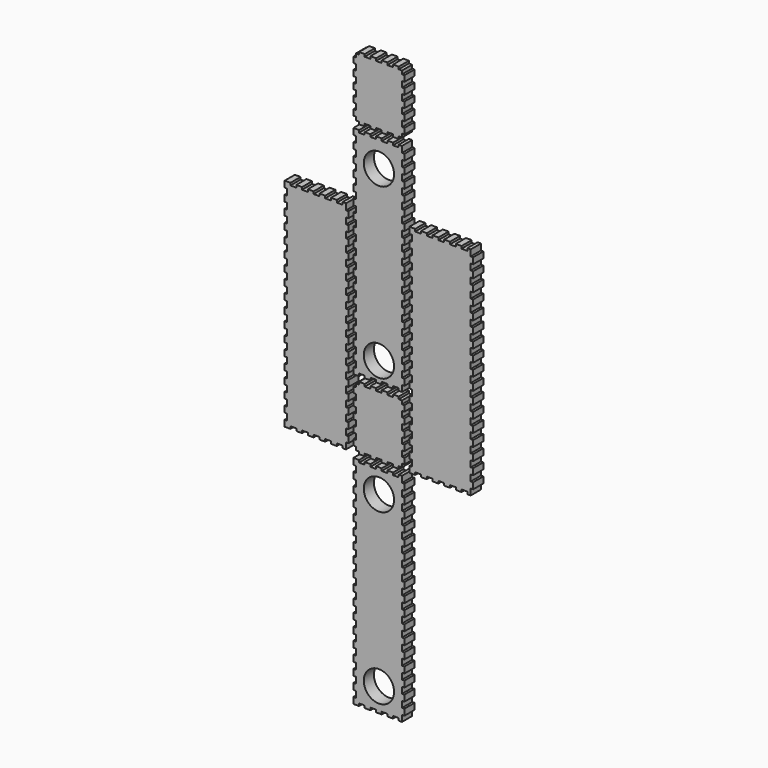
from build123d import *

# Parameters (mm, degrees)
F0_R     = 30.2133
F1_DEPTH = 25.4


with BuildPart() as f1:
    # F0 (on Front) → F1 (new body)
    with BuildSketch(Plane.XZ):
        Polygon((-50.8007366, -561.464841), (-50.8007366, -573.8010114), (-39.5119606, -573.8010114), (-39.5119606, -569.0385114), (-28.2231846, -569.0385114), (-28.2231846, -573.8010114), (-16.9341546, -573.8010114), (-16.9341546, -569.0385114), (-5.6453786, -569.0385114), (-5.6453786, -573.8010114), (5.6436514, -573.8010114), (5.6436514, -569.0385114), (16.9324274, -569.0385114), (16.9324274, -573.8010114), (28.2214574, -573.8010114), (28.2214574, -569.0385114), (39.5102334, -569.0385114), (39.5102334, -573.8010114), (46.0365094, -573.8010114), (46.0365094, -561.464841), (50.7990094, -561.464841), (50.7990094, -549.1271466), (46.0365094, -549.1271466), (46.0365094, -536.7896046), (50.7990094, -536.7896046), (50.7990094, -524.4535866), (46.0365094, -524.4535866), (46.0365094, -512.1160446), (50.7990094, -512.1160446), (50.7990094, -499.7782486), (46.0365094, -499.7782486), (46.0365094, -487.4419766), (50.7990094, -487.4419766), (50.7990094, -475.1046886), (46.0365094, -475.1046886), (46.0365094, -462.7668926), (50.7990094, -462.7668926), (50.7990094, -450.4293506), (46.0365094, -450.4293506), (46.0365094, -438.0933326), (50.7990094, -438.0933326), (50.7990094, -425.7555366), (46.0365094, -425.7555366), (46.0365094, -413.4179946), (50.7990094, -413.4179946), (50.7990094, -401.0819766), (46.0365094, -401.0819766), (46.0365094, -388.7441806), (50.7990094, -388.7441806), (50.7990094, -376.4066386), (46.0365094, -376.4066386), (46.0365094, -364.0706206), (50.7990094, -364.0706206), (50.7990094, -351.7328246), (46.0365094, -351.7328246), (46.0365094, -339.3952826), (50.7990094, -339.3952826), (50.7990094, -327.0582486), (46.0365094, -327.0582486), (46.0365094, -314.7214686), (50.7990094, -314.7214686), (50.7990094, -302.3846886), (46.0365094, -302.3846886), (46.0365094, -290.0479086), (50.7990094, -290.0479086), (50.7990094, -277.7111286), (46.0365094, -277.7111286), (46.0365094, -265.3718086), (50.7990094, -265.3718086), (50.7990094, -253.0375686), (46.0365094, -253.0375686), (46.0365094, -240.6982486), (50.7990094, -240.6982486), (50.7990094, -228.3614686), (46.0365094, -228.3614686), (46.0365094, -216.0246886), (50.7990094, -216.0246886), (50.7990094, -203.6879086), (46.0365094, -203.6879086), (46.0365094, -191.3511286), (50.7990094, -191.3511286), (50.7990094, -179.0143486), (46.0365094, -179.0143486), (46.0365094, -166.6775686), (50.7990094, -166.6775686), (50.7990094, -154.3357086), (46.0365094, -154.3357086), (46.0365094, -142.0014686), (39.5102334, -142.0014686), (39.5102334, -146.7639686), (28.2214574, -146.7639686), (28.2214574, -142.0014686), (16.9324274, -142.0014686), (16.9324274, -146.7639686), (5.6436514, -146.7639686), (5.6436514, -142.0014686), (-5.6453786, -142.0014686), (-5.6453786, -146.7639686), (-16.9341546, -146.7639686), (-16.9341546, -142.0014686), (-28.2231846, -142.0014686), (-28.2231846, -146.7639686), (-39.5119606, -146.7639686), (-39.5119606, -142.0014686), (-50.8007366, -142.0014686), (-50.8007366, -154.3357086), (-46.0382366, -154.3357086), (-46.0382366, -166.6775686), (-50.8007366, -166.6775686), (-50.8007366, -179.0143486), (-46.0382366, -179.0143486), (-46.0382366, -191.3511286), (-50.8007366, -191.3511286), (-50.8007366, -203.6879086), (-46.0382366, -203.6879086), (-46.0382366, -216.0246886), (-50.8007366, -216.0246886), (-50.8007366, -228.3614686), (-46.0382366, -228.3614686), (-46.0382366, -240.6982486), (-50.8007366, -240.6982486), (-50.8007366, -253.0375686), (-46.0382366, -253.0375686), (-46.0382366, -265.3718086), (-50.8007366, -265.3718086), (-50.8007366, -277.7111286), (-46.0382366, -277.7111286), (-46.0382366, -290.0479086), (-50.8007366, -290.0479086), (-50.8007366, -302.3846886), (-46.0382366, -302.3846886), (-46.0382366, -314.7214686), (-50.8007366, -314.7214686), (-50.8007366, -327.0582486), (-46.0382366, -327.0582486), (-46.0382366, -339.3952826), (-50.8007366, -339.3952826), (-50.8007366, -351.7328246), (-46.0382366, -351.7328246), (-46.0382366, -364.0706206), (-50.8007366, -364.0706206), (-50.8007366, -376.4066386), (-46.0382366, -376.4066386), (-46.0382366, -388.7441806), (-50.8007366, -388.7441806), (-50.8007366, -401.0819766), (-46.0382366, -401.0819766), (-46.0382366, -413.4179946), (-50.8007366, -413.4179946), (-50.8007366, -425.7555366), (-46.0382366, -425.7555366), (-46.0382366, -438.0933326), (-50.8007366, -438.0933326), (-50.8007366, -450.4293506), (-46.0382366, -450.4293506), (-46.0382366, -462.7668926), (-50.8007366, -462.7668926), (-50.8007366, -475.1046886), (-46.0382366, -475.1046886), (-46.0382366, -487.4419766), (-50.8007366, -487.4419766), (-50.8007366, -499.7782486), (-46.0382366, -499.7782486), (-46.0382366, -512.1160446), (-50.8007366, -512.1160446), (-50.8007366, -524.4535866), (-46.0382366, -524.4535866), (-46.0382366, -536.7896046), (-50.8007366, -536.7896046), (-50.8007366, -549.1271466), (-46.0382366, -549.1271466), (-46.0382366, -561.464841), align=None)
        with Locations((-0.0008636, -526.29054)):
            Circle(F0_R, mode=Mode.SUBTRACT)
        with Locations((-0.0008636, -189.51194)):
            Circle(F0_R, mode=Mode.SUBTRACT)
    extrude(amount=F1_DEPTH)


with BuildPart() as f1b:
    # F0 (on Front) → F1, piece 2 (new body)
    with BuildSketch(Plane.XZ):
        Polygon((-187.7997514, -119.6647086), (-187.7997514, -132.0014886), (-176.2545624, -132.0014886), (-176.2545624, -127.2389886), (-164.7093226, -127.2389886), (-164.7093226, -132.0014886), (-153.1642606, -132.0014886), (-153.1642606, -127.2389886), (-141.6189446, -127.2389886), (-141.6189446, -132.0014886), (-130.0726126, -132.0014886), (-130.0726126, -127.2389886), (-118.5270426, -127.2389886), (-118.5270426, -132.0014886), (-106.9817266, -132.0014886), (-106.9817266, -127.2389886), (-95.4366646, -127.2389886), (-95.4366646, -132.0014886), (-83.8913486, -132.0014886), (-83.8913486, -127.2389886), (-72.3450166, -127.2389886), (-72.3450166, -132.0014886), (-65.5622006, -132.0014886), (-65.5622006, -119.6647086), (-60.7997006, -119.6647086), (-60.7997006, -107.3253886), (-65.5622006, -107.3253886), (-65.5622006, -94.9886086), (-60.7997006, -94.9886086), (-60.7997006, -82.6518286), (-65.5622006, -82.6518286), (-65.5622006, -70.3150486), (-60.7997006, -70.3150486), (-60.7997006, -57.9782686), (-65.5622006, -57.9782686), (-65.5622006, -45.6414886), (-60.7997006, -45.6414886), (-60.7997006, -33.3047086), (-65.5622006, -33.3047086), (-65.5622006, -20.9653886), (-60.7997006, -20.9653886), (-60.7997006, -8.6286086), (-65.5622006, -8.6286086), (-65.5622006, 3.7081714), (-60.7997006, 3.7081714), (-60.7997006, 16.0449514), (-65.5622006, 16.0449514), (-65.5622006, 28.3817314), (-60.7997006, 28.3817314), (-60.7997006, 40.7185114), (-65.5622006, 40.7185114), (-65.5622006, 53.0578314), (-60.7997006, 53.0578314), (-60.7997006, 65.3895314), (-65.5622006, 65.3895314), (-65.5622006, 77.7313914), (-60.7997006, 77.7313914), (-60.7997006, 90.0681714), (-65.5622006, 90.0681714), (-65.5622006, 102.4049514), (-60.7997006, 102.4049514), (-60.7997006, 114.7417314), (-65.5622006, 114.7417314), (-65.5622006, 127.0785114), (-60.7997006, 127.0785114), (-60.7997006, 139.4152914), (-65.5622006, 139.4152914), (-65.5622006, 151.7546114), (-60.7997006, 151.7546114), (-60.7997006, 164.0913914), (-65.5622006, 164.0913914), (-65.5622006, 176.4281714), (-60.7997006, 176.4281714), (-60.7997006, 188.7649514), (-65.5622006, 188.7649514), (-65.5622006, 201.1017314), (-60.7997006, 201.1017314), (-60.7997006, 213.4385114), (-65.5622006, 213.4385114), (-65.5622006, 225.7752914), (-60.7997006, 225.7752914), (-60.7997006, 238.1146114), (-65.5622006, 238.1146114), (-65.5622006, 250.4513914), (-60.7997006, 250.4513914), (-60.7997006, 262.7881714), (-65.5622006, 262.7881714), (-65.5622006, 275.1249514), (-60.7997006, 275.1249514), (-60.7997006, 287.4617314), (-65.5622006, 287.4617314), (-65.5622006, 299.7985114), (-72.3450166, 299.7985114), (-72.3450166, 295.0360114), (-83.8913486, 295.0360114), (-83.8913486, 299.7985114), (-95.4366646, 299.7985114), (-95.4366646, 295.0360114), (-106.9817266, 295.0360114), (-106.9817266, 299.7985114), (-118.5270426, 299.7985114), (-118.5270426, 295.0360114), (-130.0726126, 295.0360114), (-130.0726126, 299.7985114), (-141.6189446, 299.7985114), (-141.6189446, 295.0360114), (-153.1642606, 295.0360114), (-153.1642606, 299.7985114), (-164.7093226, 299.7985114), (-164.7093226, 295.0360114), (-176.2545624, 295.0360114), (-176.2545624, 299.7985114), (-187.7997514, 299.7985114), (-187.7997514, 287.4617314), (-183.0372514, 287.4617314), (-183.0372514, 275.1249514), (-187.7997514, 275.1249514), (-187.7997514, 262.7881714), (-183.0372514, 262.7881714), (-183.0372514, 250.4513914), (-187.7997514, 250.4513914), (-187.7997514, 238.1146114), (-183.0372514, 238.1146114), (-183.0372514, 225.7752914), (-187.7997514, 225.7752914), (-187.7997514, 213.4385114), (-183.0372514, 213.4385114), (-183.0372514, 201.1017314), (-187.7997514, 201.1017314), (-187.7997514, 188.7649514), (-183.0372514, 188.7649514), (-183.0372514, 176.4281714), (-187.7997514, 176.4281714), (-187.7997514, 164.0913914), (-183.0372514, 164.0913914), (-183.0372514, 151.7546114), (-187.7997514, 151.7546114), (-187.7997514, 139.4152914), (-183.0372514, 139.4152914), (-183.0372514, 127.0785114), (-187.7997514, 127.0785114), (-187.7997514, 114.7417314), (-183.0372514, 114.7417314), (-183.0372514, 102.4049514), (-187.7997514, 102.4049514), (-187.7997514, 90.0681714), (-183.0372514, 90.0681714), (-183.0372514, 77.7313914), (-187.7997514, 77.7313914), (-187.7997514, 65.3895314), (-183.0372514, 65.3895314), (-183.0372514, 53.0578314), (-187.7997514, 53.0578314), (-187.7997514, 40.7185114), (-183.0372514, 40.7185114), (-183.0372514, 28.3817314), (-187.7997514, 28.3817314), (-187.7997514, 16.0449514), (-183.0372514, 16.0449514), (-183.0372514, 3.7081714), (-187.7997514, 3.7081714), (-187.7997514, -8.6286086), (-183.0372514, -8.6286086), (-183.0372514, -20.9653886), (-187.7997514, -20.9653886), (-187.7997514, -33.3047086), (-183.0372514, -33.3047086), (-183.0372514, -45.6414886), (-187.7997514, -45.6414886), (-187.7997514, -57.9782686), (-183.0372514, -57.9782686), (-183.0372514, -70.3150486), (-187.7997514, -70.3150486), (-187.7997514, -82.6518286), (-183.0372514, -82.6518286), (-183.0372514, -94.9886086), (-187.7997514, -94.9886086), (-187.7997514, -107.3253886), (-183.0372514, -107.3253886), (-183.0372514, -119.6647086), align=None)
    extrude(amount=F1_DEPTH)


with BuildPart() as f1c:
    # F0 (on Front) → F1, piece 3 (new body)
    with BuildSketch(Plane.XZ):
        Polygon((-46.0382366, -120.4571886), (-46.0382366, -127.2389886), (-39.5119606, -127.2389886), (-39.5119606, -132.0014886), (-28.2231846, -132.0014886), (-28.2231846, -127.2389886), (-16.9341546, -127.2389886), (-16.9341546, -132.0014886), (-5.6453786, -132.0014886), (-5.6453786, -127.2389886), (5.6436514, -127.2389886), (5.6436514, -132.0014886), (16.9324274, -132.0014886), (16.9324274, -127.2389886), (28.2214574, -127.2389886), (28.2214574, -132.0014886), (39.5102334, -132.0014886), (39.5102334, -127.2389886), (46.0365094, -127.2389886), (46.0365094, -120.4571886), (50.7990094, -120.4571886), (50.7990094, -108.9103486), (46.0365094, -108.9103486), (46.0365094, -97.3635086), (50.7990094, -97.3635086), (50.7990094, -85.8192086), (46.0365094, -85.8192086), (46.0365094, -74.2749086), (50.7990094, -74.2749086), (50.7990094, -62.7280686), (46.0365094, -62.7280686), (46.0365094, -51.1812286), (50.7990094, -51.1812286), (50.7990094, -39.6369286), (46.0365094, -39.6369286), (46.0365094, -28.0926286), (50.7990094, -28.0926286), (50.7990094, -16.5483286), (46.0365094, -16.5483286), (46.0365094, -9.7639886), (39.5102334, -9.7639886), (39.5102334, -5.0014886), (28.2214574, -5.0014886), (28.2214574, -9.7639886), (16.9324274, -9.7639886), (16.9324274, -5.0014886), (5.6436514, -5.0014886), (5.6436514, -9.7639886), (-5.6453786, -9.7639886), (-5.6453786, -5.0014886), (-16.9341546, -5.0014886), (-16.9341546, -9.7639886), (-28.2231846, -9.7639886), (-28.2231846, -5.0014886), (-39.5119606, -5.0014886), (-39.5119606, -9.7639886), (-46.0382366, -9.7639886), (-46.0382366, -16.5483286), (-50.8007366, -16.5483286), (-50.8007366, -28.0926286), (-46.0382366, -28.0926286), (-46.0382366, -39.6369286), (-50.8007366, -39.6369286), (-50.8007366, -51.1812286), (-46.0382366, -51.1812286), (-46.0382366, -62.7280686), (-50.8007366, -62.7280686), (-50.8007366, -74.2749086), (-46.0382366, -74.2749086), (-46.0382366, -85.8192086), (-50.8007366, -85.8192086), (-50.8007366, -97.3635086), (-46.0382366, -97.3635086), (-46.0382366, -108.9103486), (-50.8007366, -108.9103486), (-50.8007366, -120.4571886), align=None)
    extrude(amount=F1_DEPTH)


with BuildPart() as f1d:
    # F0 (on Front) → F1, piece 4 (new body)
    with BuildSketch(Plane.XZ):
        Polygon((60.7997514, -119.6647086), (60.7997514, -132.0014886), (72.3440514, -132.0014886), (72.3440514, -127.2389886), (83.8908914, -127.2389886), (83.8908914, -132.0014886), (95.4377314, -132.0014886), (95.4377314, -127.2389886), (106.9820314, -127.2389886), (106.9820314, -132.0014886), (118.5263314, -132.0014886), (118.5263314, -127.2389886), (130.0731714, -127.2389886), (130.0731714, -132.0014886), (141.6174714, -132.0014886), (141.6174714, -127.2389886), (153.1643114, -127.2389886), (153.1643114, -132.0014886), (164.7111514, -132.0014886), (164.7111514, -127.2389886), (176.2529114, -127.2389886), (176.2529114, -132.0014886), (183.0372514, -132.0014886), (183.0372514, -119.6647086), (187.7997514, -119.6647086), (187.7997514, -107.3253886), (183.0372514, -107.3253886), (183.0372514, -94.9886086), (187.7997514, -94.9886086), (187.7997514, -82.6518286), (183.0372514, -82.6518286), (183.0372514, -70.3150486), (187.7997514, -70.3150486), (187.7997514, -57.9782686), (183.0372514, -57.9782686), (183.0372514, -45.6414886), (187.7997514, -45.6414886), (187.7997514, -33.3047086), (183.0372514, -33.3047086), (183.0372514, -20.9653886), (187.7997514, -20.9653886), (187.7997514, -8.6286086), (183.0372514, -8.6286086), (183.0372514, 3.7081714), (187.7997514, 3.7081714), (187.7997514, 16.0449514), (183.0372514, 16.0449514), (183.0372514, 28.3817314), (187.7997514, 28.3817314), (187.7997514, 40.7185114), (183.0372514, 40.7185114), (183.0372514, 53.0578314), (187.7997514, 53.0578314), (187.7997514, 65.3895314), (183.0372514, 65.3895314), (183.0372514, 77.7313914), (187.7997514, 77.7313914), (187.7997514, 90.0681714), (183.0372514, 90.0681714), (183.0372514, 102.4049514), (187.7997514, 102.4049514), (187.7997514, 114.7417314), (183.0372514, 114.7417314), (183.0372514, 127.0785114), (187.7997514, 127.0785114), (187.7997514, 139.4152914), (183.0372514, 139.4152914), (183.0372514, 151.7546114), (187.7997514, 151.7546114), (187.7997514, 164.0913914), (183.0372514, 164.0913914), (183.0372514, 176.4281714), (187.7997514, 176.4281714), (187.7997514, 188.7649514), (183.0372514, 188.7649514), (183.0372514, 201.1017314), (187.7997514, 201.1017314), (187.7997514, 213.4385114), (183.0372514, 213.4385114), (183.0372514, 225.7752914), (187.7997514, 225.7752914), (187.7997514, 238.1146114), (183.0372514, 238.1146114), (183.0372514, 250.4513914), (187.7997514, 250.4513914), (187.7997514, 262.7881714), (183.0372514, 262.7881714), (183.0372514, 275.1249514), (187.7997514, 275.1249514), (187.7997514, 287.4617314), (183.0372514, 287.4617314), (183.0372514, 299.7985114), (176.2529114, 299.7985114), (176.2529114, 295.0360114), (164.7111514, 295.0360114), (164.7111514, 299.7985114), (153.1643114, 299.7985114), (153.1643114, 295.0360114), (141.6174714, 295.0360114), (141.6174714, 299.7985114), (130.0731714, 299.7985114), (130.0731714, 295.0360114), (118.5263314, 295.0360114), (118.5263314, 299.7985114), (106.9820314, 299.7985114), (106.9820314, 295.0360114), (95.4377314, 295.0360114), (95.4377314, 299.7985114), (83.8908914, 299.7985114), (83.8908914, 295.0360114), (72.3440514, 295.0360114), (72.3440514, 299.7985114), (60.7997514, 299.7985114), (60.7997514, 287.4617314), (65.5622514, 287.4617314), (65.5622514, 275.1249514), (60.7997514, 275.1249514), (60.7997514, 262.7881714), (65.5622514, 262.7881714), (65.5622514, 250.4513914), (60.7997514, 250.4513914), (60.7997514, 238.1146114), (65.5622514, 238.1146114), (65.5622514, 225.7752914), (60.7997514, 225.7752914), (60.7997514, 213.4385114), (65.5622514, 213.4385114), (65.5622514, 201.1017314), (60.7997514, 201.1017314), (60.7997514, 188.7649514), (65.5622514, 188.7649514), (65.5622514, 176.4281714), (60.7997514, 176.4281714), (60.7997514, 164.0913914), (65.5622514, 164.0913914), (65.5622514, 151.7546114), (60.7997514, 151.7546114), (60.7997514, 139.4152914), (65.5622514, 139.4152914), (65.5622514, 127.0785114), (60.7997514, 127.0785114), (60.7997514, 114.7417314), (65.5622514, 114.7417314), (65.5622514, 102.4049514), (60.7997514, 102.4049514), (60.7997514, 90.0681714), (65.5622514, 90.0681714), (65.5622514, 77.7313914), (60.7997514, 77.7313914), (60.7997514, 65.3895314), (65.5622514, 65.3895314), (65.5622514, 53.0578314), (60.7997514, 53.0578314), (60.7997514, 40.7185114), (65.5622514, 40.7185114), (65.5622514, 28.3817314), (60.7997514, 28.3817314), (60.7997514, 16.0449514), (65.5622514, 16.0449514), (65.5622514, 3.7081714), (60.7997514, 3.7081714), (60.7997514, -8.6286086), (65.5622514, -8.6286086), (65.5622514, -20.9653886), (60.7997514, -20.9653886), (60.7997514, -33.3047086), (65.5622514, -33.3047086), (65.5622514, -45.6414886), (60.7997514, -45.6414886), (60.7997514, -57.9782686), (65.5622514, -57.9782686), (65.5622514, -70.3150486), (60.7997514, -70.3150486), (60.7997514, -82.6518286), (65.5622514, -82.6518286), (65.5622514, -94.9886086), (60.7997514, -94.9886086), (60.7997514, -107.3253886), (65.5622514, -107.3253886), (65.5622514, -119.6647086), align=None)
    extrude(amount=F1_DEPTH)


with BuildPart() as f1e:
    # F0 (on Front) → F1, piece 5 (new body)
    with BuildSketch(Plane.XZ):
        Polygon((-50.8007366, 17.3352714), (-50.8007366, 4.9984914), (-39.5119606, 4.9984914), (-39.5119606, 9.7609914), (-28.2231846, 9.7609914), (-28.2231846, 4.9984914), (-16.9341546, 4.9984914), (-16.9341546, 9.7609914), (-5.6453786, 9.7609914), (-5.6453786, 4.9984914), (5.6436514, 4.9984914), (5.6436514, 9.7609914), (16.9324274, 9.7609914), (16.9324274, 4.9984914), (28.2214574, 4.9984914), (28.2214574, 9.7609914), (39.5102334, 9.7609914), (39.5102334, 4.9984914), (46.0365094, 4.9984914), (46.0365094, 17.3352714), (50.7990094, 17.3352714), (50.7990094, 29.6720514), (46.0365094, 29.6720514), (46.0365094, 42.0088314), (50.7990094, 42.0088314), (50.7990094, 54.3481514), (46.0365094, 54.3481514), (46.0365094, 66.6849314), (50.7990094, 66.6849314), (50.7990094, 79.0217114), (46.0365094, 79.0217114), (46.0365094, 91.3584914), (50.7990094, 91.3584914), (50.7990094, 103.6952714), (46.0365094, 103.6952714), (46.0365094, 116.0320514), (50.7990094, 116.0320514), (50.7990094, 128.3688314), (46.0365094, 128.3688314), (46.0365094, 140.7081514), (50.7990094, 140.7081514), (50.7990094, 153.0449314), (46.0365094, 153.0449314), (46.0365094, 165.3817114), (50.7990094, 165.3817114), (50.7990094, 177.7184914), (46.0365094, 177.7184914), (46.0365094, 190.0552714), (50.7990094, 190.0552714), (50.7990094, 202.3920514), (46.0365094, 202.3920514), (46.0365094, 214.7288314), (50.7990094, 214.7288314), (50.7990094, 227.0656114), (46.0365094, 227.0656114), (46.0365094, 239.4049314), (50.7990094, 239.4049314), (50.7990094, 251.7417114), (46.0365094, 251.7417114), (46.0365094, 264.0784914), (50.7990094, 264.0784914), (50.7990094, 276.4152714), (46.0365094, 276.4152714), (46.0365094, 288.7520514), (50.7990094, 288.7520514), (50.7990094, 301.0913714), (46.0365094, 301.0913714), (46.0365094, 313.4256114), (50.7990094, 313.4256114), (50.7990094, 325.7649314), (46.0365094, 325.7649314), (46.0365094, 338.1017114), (50.7990094, 338.1017114), (50.7990094, 350.4384914), (46.0365094, 350.4384914), (46.0365094, 362.7752714), (50.7990094, 362.7752714), (50.7990094, 375.1120514), (46.0365094, 375.1120514), (46.0365094, 387.4488314), (50.7990094, 387.4488314), (50.7990094, 399.7881514), (46.0365094, 399.7881514), (46.0365094, 412.1249314), (50.7990094, 412.1249314), (50.7990094, 424.4617114), (46.0365094, 424.4617114), (46.0365094, 436.7984914), (39.5102334, 436.7984914), (39.5102334, 432.0359914), (28.2214574, 432.0359914), (28.2214574, 436.7984914), (16.9324274, 436.7984914), (16.9324274, 432.0359914), (5.6436514, 432.0359914), (5.6436514, 436.7984914), (-5.6453786, 436.7984914), (-5.6453786, 432.0359914), (-16.9341546, 432.0359914), (-16.9341546, 436.7984914), (-28.2231846, 436.7984914), (-28.2231846, 432.0359914), (-39.5119606, 432.0359914), (-39.5119606, 436.7984914), (-50.8007366, 436.7984914), (-50.8007366, 424.4617114), (-46.0382366, 424.4617114), (-46.0382366, 412.1249314), (-50.8007366, 412.1249314), (-50.8007366, 399.7881514), (-46.0382366, 399.7881514), (-46.0382366, 387.4488314), (-50.8007366, 387.4488314), (-50.8007366, 375.1120514), (-46.0382366, 375.1120514), (-46.0382366, 362.7752714), (-50.8007366, 362.7752714), (-50.8007366, 350.4384914), (-46.0382366, 350.4384914), (-46.0382366, 338.1017114), (-50.8007366, 338.1017114), (-50.8007366, 325.7649314), (-46.0382366, 325.7649314), (-46.0382366, 313.4256114), (-50.8007366, 313.4256114), (-50.8007366, 301.0913714), (-46.0382366, 301.0913714), (-46.0382366, 288.7520514), (-50.8007366, 288.7520514), (-50.8007366, 276.4152714), (-46.0382366, 276.4152714), (-46.0382366, 264.0784914), (-50.8007366, 264.0784914), (-50.8007366, 251.7417114), (-46.0382366, 251.7417114), (-46.0382366, 239.4049314), (-50.8007366, 239.4049314), (-50.8007366, 227.0656114), (-46.0382366, 227.0656114), (-46.0382366, 214.7288314), (-50.8007366, 214.7288314), (-50.8007366, 202.3920514), (-46.0382366, 202.3920514), (-46.0382366, 190.0552714), (-50.8007366, 190.0552714), (-50.8007366, 177.7184914), (-46.0382366, 177.7184914), (-46.0382366, 165.3817114), (-50.8007366, 165.3817114), (-50.8007366, 153.0449314), (-46.0382366, 153.0449314), (-46.0382366, 140.7081514), (-50.8007366, 140.7081514), (-50.8007366, 128.3688314), (-46.0382366, 128.3688314), (-46.0382366, 116.0320514), (-50.8007366, 116.0320514), (-50.8007366, 103.6952714), (-46.0382366, 103.6952714), (-46.0382366, 91.3584914), (-50.8007366, 91.3584914), (-50.8007366, 79.0217114), (-46.0382366, 79.0217114), (-46.0382366, 66.6849314), (-50.8007366, 66.6849314), (-50.8007366, 54.3481514), (-46.0382366, 54.3481514), (-46.0382366, 42.0088314), (-50.8007366, 42.0088314), (-50.8007366, 29.6720514), (-46.0382366, 29.6720514), (-46.0382366, 17.3352714), align=None)
        with Locations((-0.0008636, 44.9984114)):
            Circle(F0_R, mode=Mode.SUBTRACT)
        with Locations((-0.0008636, 381.8786114)):
            Circle(F0_R, mode=Mode.SUBTRACT)
    extrude(amount=F1_DEPTH)


with BuildPart() as f1f:
    # F0 (on Front) → F1, piece 6 (new body)
    with BuildSketch(Plane.XZ):
        Polygon((-46.0382366, 458.3427714), (-46.0382366, 451.5635114), (-39.5119606, 451.5635114), (-39.5119606, 446.8010114), (-28.2231846, 446.8010114), (-28.2231846, 451.5635114), (-16.9341546, 451.5635114), (-16.9341546, 446.8010114), (-5.6453786, 446.8010114), (-5.6453786, 451.5635114), (5.6436514, 451.5635114), (5.6436514, 446.8010114), (16.9324274, 446.8010114), (16.9324274, 451.5635114), (28.2214574, 451.5635114), (28.2214574, 446.8010114), (39.5102334, 446.8010114), (39.5102334, 451.5635114), (46.0365094, 451.5635114), (46.0365094, 458.3427714), (50.7990094, 458.3427714), (50.7990094, 469.8896114), (46.0365094, 469.8896114), (46.0365094, 481.4364514), (50.7990094, 481.4364514), (50.7990094, 492.9782114), (46.0365094, 492.9782114), (46.0365094, 504.5250514), (50.7990094, 504.5250514), (50.7990094, 516.0718914), (46.0365094, 516.0718914), (46.0365094, 527.6187314), (50.7990094, 527.6187314), (50.7990094, 539.1604914), (46.0365094, 539.1604914), (46.0365094, 550.7073314), (50.7990094, 550.7073314), (50.7990094, 562.2541714), (46.0365094, 562.2541714), (46.0365094, 569.0385114), (39.5102334, 569.0385114), (39.5102334, 573.8010114), (28.2214574, 573.8010114), (28.2214574, 569.0385114), (16.9324274, 569.0385114), (16.9324274, 573.8010114), (5.6436514, 573.8010114), (5.6436514, 569.0385114), (-5.6453786, 569.0385114), (-5.6453786, 573.8010114), (-16.9341546, 573.8010114), (-16.9341546, 569.0385114), (-28.2231846, 569.0385114), (-28.2231846, 573.8010114), (-39.5119606, 573.8010114), (-39.5119606, 569.0385114), (-46.0382366, 569.0385114), (-46.0382366, 562.2541714), (-50.8007366, 562.2541714), (-50.8007366, 550.7073314), (-46.0382366, 550.7073314), (-46.0382366, 539.1604914), (-50.8007366, 539.1604914), (-50.8007366, 527.6187314), (-46.0382366, 527.6187314), (-46.0382366, 516.0718914), (-50.8007366, 516.0718914), (-50.8007366, 504.5250514), (-46.0382366, 504.5250514), (-46.0382366, 492.9782114), (-50.8007366, 492.9782114), (-50.8007366, 481.4364514), (-46.0382366, 481.4364514), (-46.0382366, 469.8896114), (-50.8007366, 469.8896114), (-50.8007366, 458.3427714), align=None)
    extrude(amount=F1_DEPTH)


solid = Compound([f1.part, f1b.part, f1c.part, f1d.part, f1e.part, f1f.part])
